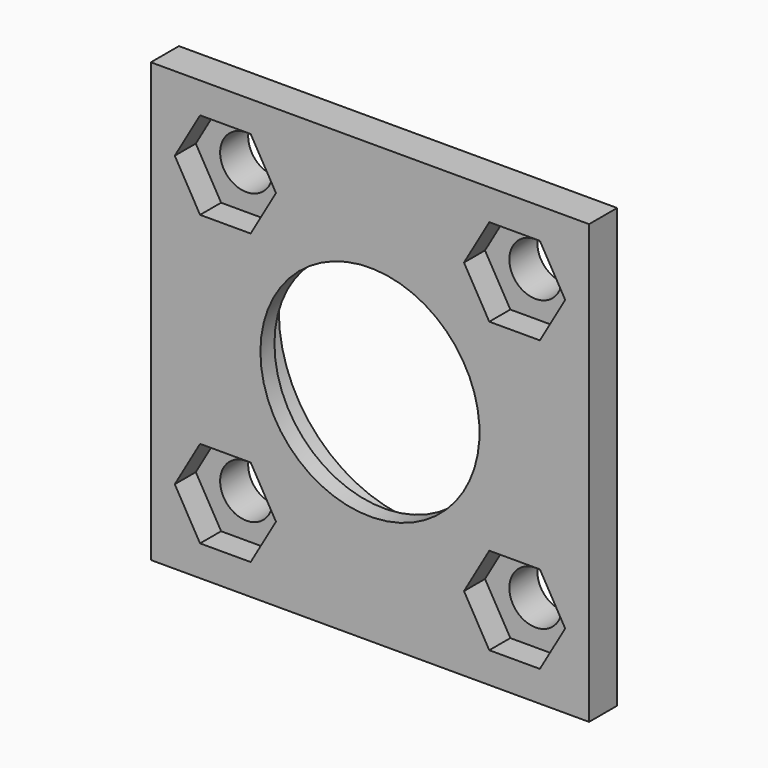
from build123d import *

# Parameters (mm, degrees)
F0_W      = 50
F0_H      = 50
F1_DEPTH  = 4
F2_W      = 44
F2_H      = 44
F3_DEPTH  = 3
F4_R      = 3
F4_R_2    = 7.5
F5_DEPTH  = 25
F7_DEPTH  = 3
F8_R      = 12
F9_DEPTH  = 5
F10_R     = 16
F11_DEPTH = 5
F12_R     = 12.5
F13_DEPTH = 2.001
F14_R     = 3


with BuildPart() as f1:
    # F0 (on Front) → F1 (new body)
    with BuildSketch(Plane.XZ):
        Rectangle(F0_W, F0_H)
    extrude(amount=-F1_DEPTH)

    # F2 (on face) → F3 (join)
    with BuildSketch(Plane(origin=(0, 4, 0), x_dir=(-1, 0, 0), z_dir=(0, 1, 0))):
        Rectangle(F2_W, F2_H)
    extrude(amount=F3_DEPTH)

    # F4 (on face) → F5 (cut)
    with BuildSketch(Plane(origin=(0, 7, 0), x_dir=(-1, 0, 0), z_dir=(0, 1, 0))):
        with Locations((-16.5, 16.5)):
            Circle(F4_R)
        with Locations((16.5, 16.5)):
            Circle(F4_R)
        with Locations((16.5, -16.5)):
            Circle(F4_R)
        with Locations((-16.5, -16.5)):
            Circle(F4_R)
        Circle(F4_R_2)
    extrude(amount=-F5_DEPTH, mode=Mode.SUBTRACT)

    # F6 (on face) → F7 (cut)
    with BuildSketch(Plane.XZ):
        Polygon((-19.386751, 11.5), (-13.613249, 11.5), (-10.726497, 16.5), (-13.613249, 21.5), (-19.386751, 21.5), (-22.273503, 16.5), align=None)
        Polygon((19.386751, 21.5), (13.613249, 21.5), (10.726497, 16.5), (13.613249, 11.5), (19.386751, 11.5), (22.273503, 16.5), align=None)
        Polygon((13.613249, -21.5), (19.386751, -21.5), (22.273503, -16.5), (19.386751, -11.5), (13.613249, -11.5), (10.726497, -16.5), align=None)
        Polygon((-19.386751, -21.5), (-13.613249, -21.5), (-10.726497, -16.5), (-13.613249, -11.5), (-19.386751, -11.5), (-22.273503, -16.5), align=None)
    extrude(amount=-F7_DEPTH, mode=Mode.SUBTRACT)

    # F8 (on face) → F9 (cut)
    with BuildSketch(Plane(origin=(0, 7, 0), x_dir=(-1, 0, 0), z_dir=(0, 1, 0))):
        Circle(F8_R)
    extrude(amount=-F9_DEPTH, mode=Mode.SUBTRACT)

    # F10 (on face) → F11 (cut)
    with BuildSketch(Plane(origin=(0, 7, 0), x_dir=(-1, 0, 0), z_dir=(0, 1, 0))):
        Circle(F10_R)
    extrude(amount=-F11_DEPTH, mode=Mode.SUBTRACT)

    # F12 (on face) → F13 (cut, through all)
    with BuildSketch(Plane(origin=(0, 2, 0), x_dir=(-1, 0, 0), z_dir=(0, 1, 0))):
        Circle(F12_R)
    extrude(amount=-F13_DEPTH, mode=Mode.SUBTRACT)

    # F14
    f14_edges = [f1.edges().sort_by_distance(p)[0] for p in [
        (22, 5.5, 22),
        (-22, 5.5, 22),
        (-22, 5.5, -22),
        (22, 5.5, -22),
    ]]
    fillet(f14_edges, radius=F14_R)


solid = f1.part
